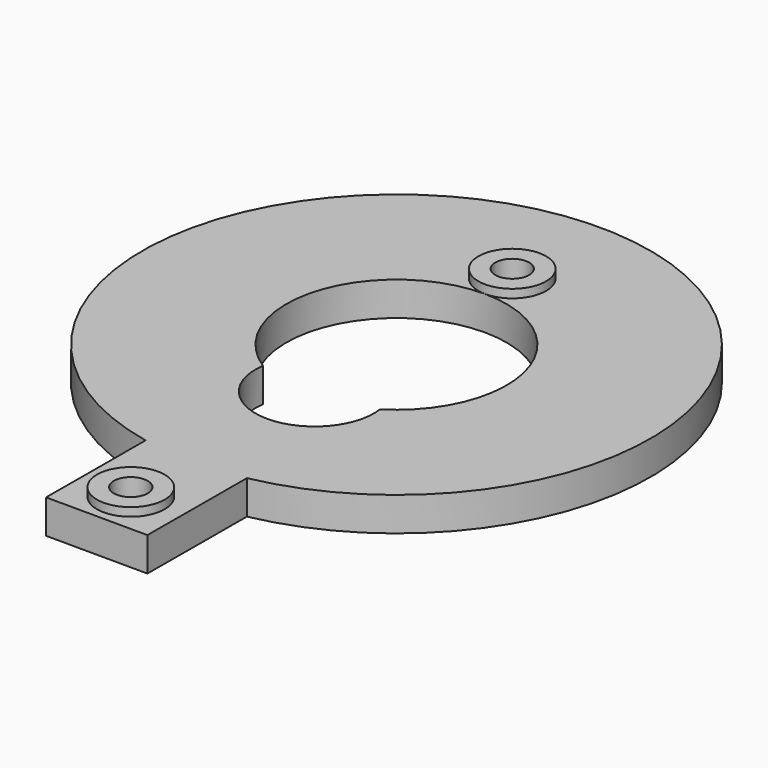
from build123d import *

# Parameters (mm, degrees)
CYLINDER003001001005001001_R     = 3.5
CYLINDER003001001005001001_DEPTH = 2
CYLINDER003001001004002_R        = 1
CYLINDER003001001004002_DEPTH    = 5
CYLINDER003001001004001001_R     = 1
CYLINDER003001001004001001_DEPTH = 5
CYLINDER003001001005001_R        = 6.5
CYLINDER003001001005001_DEPTH    = 2
BOX002_W                         = 10
BOX002_H                         = 6
BOX002_DEPTH                     = 2
CYLINDER003001001004_R           = 2
CYLINDER003001001004_DEPTH       = 0.5
CYLINDER003001001004001_R        = 2
CYLINDER003001001004001_DEPTH    = 0.5
CYLINDER003001001005_R           = 15
CYLINDER003001001005_DEPTH       = 2
CUT002_ROLL_ANGLE                = 180
CUT002_PLACEMENT_ANGLE           = -90.233929


with BuildPart() as cylinder013:
    # Cylinder003001001005001001 → Cylinder003001001005001001 (new body)
    with BuildSketch(Plane(origin=(12, 6, 21), x_dir=(1, 0, 0), z_dir=(0, 0, 1))):
        Circle(CYLINDER003001001005001001_R)
    extrude(amount=CYLINDER003001001005001001_DEPTH)


with BuildPart() as cylinder014:
    # Cylinder003001001004002 → Cylinder003001001004002 (new body)
    with BuildSketch(Plane(origin=(-2.5, 6, 19.5), x_dir=(1, 0, 0), z_dir=(0, 0, 1))):
        Circle(CYLINDER003001001004002_R)
    extrude(amount=CYLINDER003001001004002_DEPTH)


with BuildPart() as cylinder015:
    # Cylinder003001001004001001 → Cylinder003001001004001001 (new body)
    with BuildSketch(Plane(origin=(25.5, 6, 19.5), x_dir=(1, 0, 0), z_dir=(0, 0, 1))):
        Circle(CYLINDER003001001004001001_R)
    extrude(amount=CYLINDER003001001004001001_DEPTH)


with BuildPart() as fusion009:
    # Cylinder003001001005001 → Cylinder003001001005001 (new body)
    with BuildSketch(Plane(origin=(6, 6, 21), x_dir=(1, 0, 0), z_dir=(0, 0, 1))):
        Circle(CYLINDER003001001005001_R)
    extrude(amount=CYLINDER003001001005001_DEPTH)

    # Fusion009: union Cylinder013, Cylinder014, Cylinder015
    add(cylinder013.part)
    add(cylinder014.part)
    add(cylinder015.part)


with BuildPart() as box002:
    # Box002 → Box002 (new body)
    with BuildSketch(Plane(origin=(18, 3, 21), x_dir=(1, 0, 0), z_dir=(0, 0, 1))):
        with Locations((5, 3)):
            Rectangle(BOX002_W, BOX002_H)
    extrude(amount=BOX002_DEPTH)


with BuildPart() as cylinder003001001004:
    # Cylinder003001001004 → Cylinder003001001004 (new body)
    with BuildSketch(Plane(origin=(-2.5, 6, 20.5), x_dir=(1, 0, 0), z_dir=(0, 0, 1))):
        Circle(CYLINDER003001001004_R)
    extrude(amount=CYLINDER003001001004_DEPTH)


with BuildPart() as cylinder010:
    # Cylinder003001001004001 → Cylinder003001001004001 (new body)
    with BuildSketch(Plane(origin=(25.5, 6, 20.5), x_dir=(1, 0, 0), z_dir=(0, 0, 1))):
        Circle(CYLINDER003001001004001_R)
    extrude(amount=CYLINDER003001001004001_DEPTH)


with BuildPart() as guide1:
    # Cylinder003001001005 → Cylinder003001001005 (new body)
    with BuildSketch(Plane(origin=(6, 6, 21), x_dir=(1, 0, 0), z_dir=(0, 0, 1))):
        Circle(CYLINDER003001001005_R)
    extrude(amount=CYLINDER003001001005_DEPTH)

    # Fusion008: union Box002, Cylinder003001001004, Cylinder010
    add(box002.part)
    add(cylinder003001001004.part)
    add(cylinder010.part)

    # Cut002: cut Fusion009
    add(fusion009.part, mode=Mode.SUBTRACT)


with BuildPart() as guide1_1:
    # Cut002 roll: moved
    add(guide1.part.rotate(Axis((0, 0, 0), (1, 0, 0)), CUT002_ROLL_ANGLE))


with BuildPart() as guide1_2:
    # Cut002 placement: moved
    add(guide1_1.part.moved(Location((86, 36, 62))).rotate(Axis((86, 36, 62), (0, 0, 1)), CUT002_PLACEMENT_ANGLE))


solid = guide1_2.part
